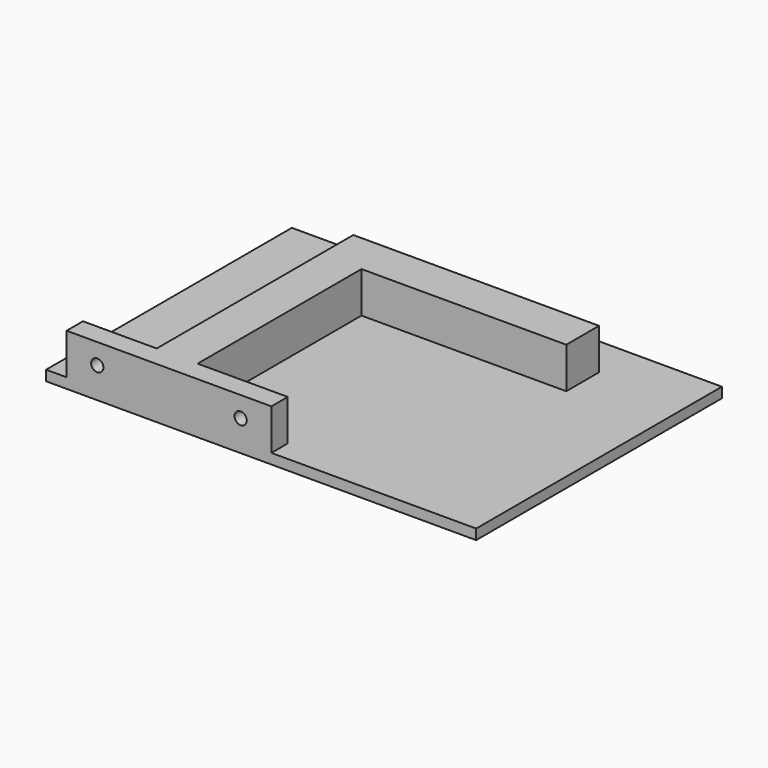
from build123d import *

# Parameters (mm, degrees)
SKETCH_W     = 105
SKETCH_H     = 75
PAD_DEPTH    = 2.5
PAD001_DEPTH = 10
SKETCH002_R  = 1.5
POCKET_DEPTH = 5.001


with BuildPart() as part:
    # Sketch → Pad (new body)
    with BuildSketch(Plane.XY):
        with Locations((52.5, 37.5)):
            Rectangle(SKETCH_W, SKETCH_H)
    extrude(amount=PAD_DEPTH)

    # Sketch001 → Pad001 (new body)
    with BuildSketch(Plane.XY.offset(2.5)):
        Polygon((5, 0), (5, 5), (23, 5), (23, 65), (83, 65), (83, 55), (33, 55), (33, 5), (55, 5), (55, 0), align=None)
    extrude(amount=PAD001_DEPTH)

    # Sketch002 → Pocket (cut, through all)
    with BuildSketch(Plane(origin=(0, 5, 0), x_dir=(-1, 0, 0), z_dir=(0, 1, 0))):
        with Locations((-12.5, 7.5)):
            Circle(SKETCH002_R)
        with Locations((-47.5, 7.5)):
            Circle(SKETCH002_R)
    extrude(amount=-POCKET_DEPTH, mode=Mode.SUBTRACT)


solid = part.part
